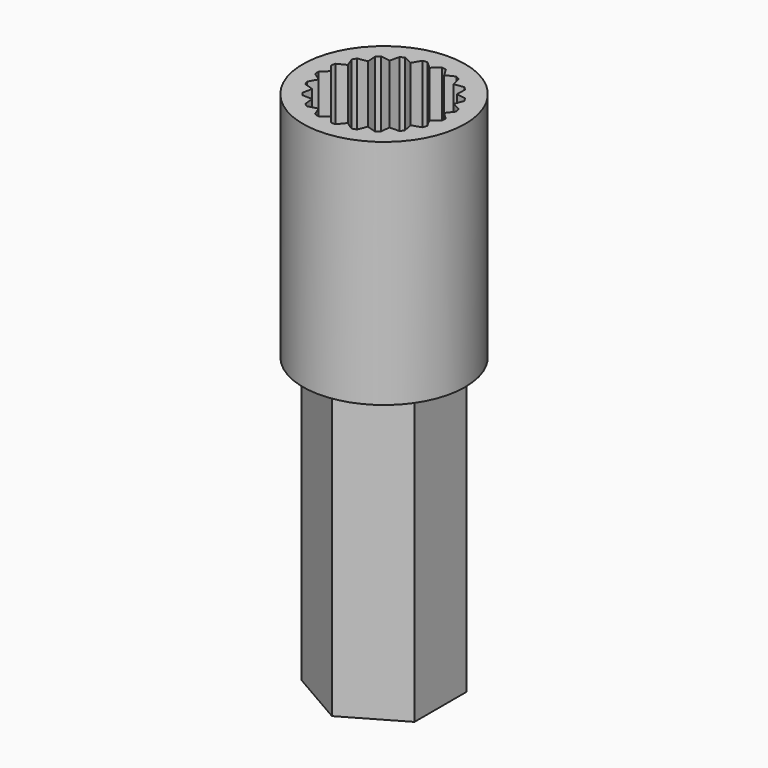
from build123d import *

# Parameters (mm, degrees)
F0_R     = 2.8
F1_DEPTH = 5
F2_DEPTH = 3
F4_DEPTH = 10


with BuildPart() as f1:
    # F0 (on Top) → F1 (new body)
    with BuildSketch(Plane.XY):
        Circle(F0_R)
        with BuildLine():
            ThreePointArc((-0.4051416179, 2.162373758), (-0.3278929856, 2.1754278177), (-0.2502285416, 2.1857231474))
            Line((-0.2502285416, 2.1857231474), (0, 1.96))
            Line((0, 1.96), (0.2502285416, 2.1857231474))
            ThreePointArc((0.2502285416, 2.1857231474), (0.3278929856, 2.1754278177), (0.4051416179, 2.162373758))
            Line((0.4051416179, 2.162373758), (0.5777201418, 1.8729226993))
            Line((0.5777201418, 1.8729226993), (0.8833647971, 2.0148614432))
            ThreePointArc((0.8833647971, 2.0148614432), (0.9545442261, 1.9821315094), (1.0245131668, 1.9468879709))
            Line((1.0245131668, 1.9468879709), (1.1041073138, 1.6194279977))
            Line((1.1041073138, 1.6194279977), (1.4380102138, 1.6649704577))
            ThreePointArc((1.4380102138, 1.6649704577), (1.4963800231, 1.612714118), (1.5528522248, 1.5584126437))
            Line((1.5528522248, 1.5584126437), (1.5323897056, 1.2220400116))
            Line((1.5323897056, 1.2220400116), (1.8648821124, 1.1671395404))
            ThreePointArc((1.8648821124, 1.1671395404), (1.9052558883, 1.1), (1.943213548, 1.0314655142))
            Line((1.943213548, 1.0314655142), (1.8245125473, 0.7160684078))
            Line((1.8245125473, 0.7160684078), (2.1260510514, 0.5656031531))
            ThreePointArc((2.1260510514, 0.5656031531), (2.1448414068, 0.4895460547), (2.1609118198, 0.4128681472))
            Line((2.1609118198, 0.4128681472), (1.9545194425, 0.1464709834))
            Line((1.9545194425, 0.1464709834), (2.1983110245, -0.0861895565))
            ThreePointArc((2.1983110245, -0.0861895565), (2.1938483538, -0.1644062059), (2.1866035935, -0.2424143665))
            Line((2.1866035935, -0.2424143665), (1.9108587079, -0.4361410306))
            Line((1.9108587079, -0.4361410306), (2.0752414159, -0.7303239458))
            ThreePointArc((2.0752414159, -0.7303239458), (2.047922247, -0.8037502536), (2.0180060421, -0.8761572999))
            Line((2.0180060421, -0.8761572999), (1.6974097914, -0.98))
            Line((1.6974097914, -0.98), (1.7677775005, -1.3095658475))
            ThreePointArc((1.7677775005, -1.3095658475), (1.7200292614, -1.3716775641), (1.670099798, -1.4320498123))
            Line((1.670099798, -1.4320498123), (1.333138566, -1.4367816688))
            Line((1.333138566, -1.4367816688), (1.3032387964, -1.7724470767))
            ThreePointArc((1.3032387964, -1.7724470767), (1.2393041277, -1.8177253035), (1.1737978577, -1.8606984144))
            Line((1.1737978577, -1.8606984144), (0.8504121287, -1.7658989811))
            Line((0.8504121287, -1.7658989811), (0.722901606, -2.0778386049))
            ThreePointArc((0.722901606, -2.0778386049), (0.6484613837, -2.1022601727), (0.5731988267, -2.1240157968))
            Line((0.5731988267, -2.1240157968), (0.2921228417, -1.9381084194))
            Line((0.2921228417, -1.9381084194), (0.0783314356, -2.1986050546))
            ThreePointArc((0.0783314356, -2.1986050546), (0, -2.2), (-0.0783314356, -2.1986050546))
            Line((-0.0783314356, -2.1986050546), (-0.2921228417, -1.9381084194))
            Line((-0.2921228417, -1.9381084194), (-0.5731988267, -2.1240157968))
            ThreePointArc((-0.5731988267, -2.1240157968), (-0.6484613837, -2.1022601727), (-0.722901606, -2.0778386049))
            Line((-0.722901606, -2.0778386049), (-0.8504121287, -1.7658989811))
            Line((-0.8504121287, -1.7658989811), (-1.1737978577, -1.8606984144))
            ThreePointArc((-1.1737978577, -1.8606984144), (-1.2393041277, -1.8177253035), (-1.3032387964, -1.7724470767))
            Line((-1.3032387964, -1.7724470767), (-1.333138566, -1.4367816688))
            Line((-1.333138566, -1.4367816688), (-1.670099798, -1.4320498123))
            ThreePointArc((-1.670099798, -1.4320498123), (-1.7200292614, -1.3716775641), (-1.7677775005, -1.3095658475))
            Line((-1.7677775005, -1.3095658475), (-1.6974097914, -0.98))
            Line((-1.6974097914, -0.98), (-2.0180060421, -0.8761572999))
            ThreePointArc((-2.0180060421, -0.8761572999), (-2.047922247, -0.8037502536), (-2.0752414159, -0.7303239458))
            Line((-2.0752414159, -0.7303239458), (-1.9108587079, -0.4361410306))
            Line((-1.9108587079, -0.4361410306), (-2.1866035935, -0.2424143665))
            ThreePointArc((-2.1866035935, -0.2424143665), (-2.1938483538, -0.1644062059), (-2.1983110245, -0.0861895565))
            Line((-2.1983110245, -0.0861895565), (-1.9545194425, 0.1464709834))
            Line((-1.9545194425, 0.1464709834), (-2.1609118198, 0.4128681472))
            ThreePointArc((-2.1609118198, 0.4128681472), (-2.1448414068, 0.4895460547), (-2.1260510514, 0.5656031531))
            Line((-2.1260510514, 0.5656031531), (-1.8245125473, 0.7160684078))
            Line((-1.8245125473, 0.7160684078), (-1.943213548, 1.0314655142))
            ThreePointArc((-1.943213548, 1.0314655142), (-1.9052558883, 1.1), (-1.8648821124, 1.1671395404))
            Line((-1.8648821124, 1.1671395404), (-1.5323897056, 1.2220400116))
            Line((-1.5323897056, 1.2220400116), (-1.5528522248, 1.5584126437))
            ThreePointArc((-1.5528522248, 1.5584126437), (-1.4963800231, 1.612714118), (-1.4380102138, 1.6649704577))
            Line((-1.4380102138, 1.6649704577), (-1.1041073138, 1.6194279977))
            Line((-1.1041073138, 1.6194279977), (-1.0245131668, 1.9468879709))
            ThreePointArc((-1.0245131668, 1.9468879709), (-0.9545442261, 1.9821315094), (-0.8833647971, 2.0148614432))
            Line((-0.8833647971, 2.0148614432), (-0.5777201418, 1.8729226993))
            Line((-0.5777201418, 1.8729226993), (-0.4051416179, 2.162373758))
        make_face(mode=Mode.SUBTRACT)
    extrude(amount=F1_DEPTH)

    # F0 (on Top) → F2 (join)
    with BuildSketch(Plane.XY):
        Circle(F0_R)
        with BuildLine():
            ThreePointArc((-0.4051416179, 2.162373758), (-0.3278929856, 2.1754278177), (-0.2502285416, 2.1857231474))
            Line((-0.2502285416, 2.1857231474), (0, 1.96))
            Line((0, 1.96), (0.2502285416, 2.1857231474))
            ThreePointArc((0.2502285416, 2.1857231474), (0.3278929856, 2.1754278177), (0.4051416179, 2.162373758))
            Line((0.4051416179, 2.162373758), (0.5777201418, 1.8729226993))
            Line((0.5777201418, 1.8729226993), (0.8833647971, 2.0148614432))
            ThreePointArc((0.8833647971, 2.0148614432), (0.9545442261, 1.9821315094), (1.0245131668, 1.9468879709))
            Line((1.0245131668, 1.9468879709), (1.1041073138, 1.6194279977))
            Line((1.1041073138, 1.6194279977), (1.4380102138, 1.6649704577))
            ThreePointArc((1.4380102138, 1.6649704577), (1.4963800231, 1.612714118), (1.5528522248, 1.5584126437))
            Line((1.5528522248, 1.5584126437), (1.5323897056, 1.2220400116))
            Line((1.5323897056, 1.2220400116), (1.8648821124, 1.1671395404))
            ThreePointArc((1.8648821124, 1.1671395404), (1.9052558883, 1.1), (1.943213548, 1.0314655142))
            Line((1.943213548, 1.0314655142), (1.8245125473, 0.7160684078))
            Line((1.8245125473, 0.7160684078), (2.1260510514, 0.5656031531))
            ThreePointArc((2.1260510514, 0.5656031531), (2.1448414068, 0.4895460547), (2.1609118198, 0.4128681472))
            Line((2.1609118198, 0.4128681472), (1.9545194425, 0.1464709834))
            Line((1.9545194425, 0.1464709834), (2.1983110245, -0.0861895565))
            ThreePointArc((2.1983110245, -0.0861895565), (2.1938483538, -0.1644062059), (2.1866035935, -0.2424143665))
            Line((2.1866035935, -0.2424143665), (1.9108587079, -0.4361410306))
            Line((1.9108587079, -0.4361410306), (2.0752414159, -0.7303239458))
            ThreePointArc((2.0752414159, -0.7303239458), (2.047922247, -0.8037502536), (2.0180060421, -0.8761572999))
            Line((2.0180060421, -0.8761572999), (1.6974097914, -0.98))
            Line((1.6974097914, -0.98), (1.7677775005, -1.3095658475))
            ThreePointArc((1.7677775005, -1.3095658475), (1.7200292614, -1.3716775641), (1.670099798, -1.4320498123))
            Line((1.670099798, -1.4320498123), (1.333138566, -1.4367816688))
            Line((1.333138566, -1.4367816688), (1.3032387964, -1.7724470767))
            ThreePointArc((1.3032387964, -1.7724470767), (1.2393041277, -1.8177253035), (1.1737978577, -1.8606984144))
            Line((1.1737978577, -1.8606984144), (0.8504121287, -1.7658989811))
            Line((0.8504121287, -1.7658989811), (0.722901606, -2.0778386049))
            ThreePointArc((0.722901606, -2.0778386049), (0.6484613837, -2.1022601727), (0.5731988267, -2.1240157968))
            Line((0.5731988267, -2.1240157968), (0.2921228417, -1.9381084194))
            Line((0.2921228417, -1.9381084194), (0.0783314356, -2.1986050546))
            ThreePointArc((0.0783314356, -2.1986050546), (0, -2.2), (-0.0783314356, -2.1986050546))
            Line((-0.0783314356, -2.1986050546), (-0.2921228417, -1.9381084194))
            Line((-0.2921228417, -1.9381084194), (-0.5731988267, -2.1240157968))
            ThreePointArc((-0.5731988267, -2.1240157968), (-0.6484613837, -2.1022601727), (-0.722901606, -2.0778386049))
            Line((-0.722901606, -2.0778386049), (-0.8504121287, -1.7658989811))
            Line((-0.8504121287, -1.7658989811), (-1.1737978577, -1.8606984144))
            ThreePointArc((-1.1737978577, -1.8606984144), (-1.2393041277, -1.8177253035), (-1.3032387964, -1.7724470767))
            Line((-1.3032387964, -1.7724470767), (-1.333138566, -1.4367816688))
            Line((-1.333138566, -1.4367816688), (-1.670099798, -1.4320498123))
            ThreePointArc((-1.670099798, -1.4320498123), (-1.7200292614, -1.3716775641), (-1.7677775005, -1.3095658475))
            Line((-1.7677775005, -1.3095658475), (-1.6974097914, -0.98))
            Line((-1.6974097914, -0.98), (-2.0180060421, -0.8761572999))
            ThreePointArc((-2.0180060421, -0.8761572999), (-2.047922247, -0.8037502536), (-2.0752414159, -0.7303239458))
            Line((-2.0752414159, -0.7303239458), (-1.9108587079, -0.4361410306))
            Line((-1.9108587079, -0.4361410306), (-2.1866035935, -0.2424143665))
            ThreePointArc((-2.1866035935, -0.2424143665), (-2.1938483538, -0.1644062059), (-2.1983110245, -0.0861895565))
            Line((-2.1983110245, -0.0861895565), (-1.9545194425, 0.1464709834))
            Line((-1.9545194425, 0.1464709834), (-2.1609118198, 0.4128681472))
            ThreePointArc((-2.1609118198, 0.4128681472), (-2.1448414068, 0.4895460547), (-2.1260510514, 0.5656031531))
            Line((-2.1260510514, 0.5656031531), (-1.8245125473, 0.7160684078))
            Line((-1.8245125473, 0.7160684078), (-1.943213548, 1.0314655142))
            ThreePointArc((-1.943213548, 1.0314655142), (-1.9052558883, 1.1), (-1.8648821124, 1.1671395404))
            Line((-1.8648821124, 1.1671395404), (-1.5323897056, 1.2220400116))
            Line((-1.5323897056, 1.2220400116), (-1.5528522248, 1.5584126437))
            ThreePointArc((-1.5528522248, 1.5584126437), (-1.4963800231, 1.612714118), (-1.4380102138, 1.6649704577))
            Line((-1.4380102138, 1.6649704577), (-1.1041073138, 1.6194279977))
            Line((-1.1041073138, 1.6194279977), (-1.0245131668, 1.9468879709))
            ThreePointArc((-1.0245131668, 1.9468879709), (-0.9545442261, 1.9821315094), (-0.8833647971, 2.0148614432))
            Line((-0.8833647971, 2.0148614432), (-0.5777201418, 1.8729226993))
            Line((-0.5777201418, 1.8729226993), (-0.4051416179, 2.162373758))
        make_face(mode=Mode.SUBTRACT)
        with BuildLine():
            Line((0, 1.96), (-0.2502285416, 2.1857231474))
            ThreePointArc((-0.2502285416, 2.1857231474), (-0.3278929856, 2.1754278177), (-0.4051416179, 2.162373758))
            Line((-0.4051416179, 2.162373758), (-0.5777201418, 1.8729226993))
            Line((-0.5777201418, 1.8729226993), (-0.8833647971, 2.0148614432))
            ThreePointArc((-0.8833647971, 2.0148614432), (-0.9545442261, 1.9821315094), (-1.0245131668, 1.9468879709))
            Line((-1.0245131668, 1.9468879709), (-1.1041073138, 1.6194279977))
            Line((-1.1041073138, 1.6194279977), (-1.4380102138, 1.6649704577))
            ThreePointArc((-1.4380102138, 1.6649704577), (-1.4963800231, 1.612714118), (-1.5528522248, 1.5584126437))
            Line((-1.5528522248, 1.5584126437), (-1.5323897056, 1.2220400116))
            Line((-1.5323897056, 1.2220400116), (-1.8648821124, 1.1671395404))
            ThreePointArc((-1.8648821124, 1.1671395404), (-1.9052558883, 1.1), (-1.943213548, 1.0314655142))
            Line((-1.943213548, 1.0314655142), (-1.8245125473, 0.7160684078))
            Line((-1.8245125473, 0.7160684078), (-2.1260510514, 0.5656031531))
            ThreePointArc((-2.1260510514, 0.5656031531), (-2.1448414068, 0.4895460547), (-2.1609118198, 0.4128681472))
            Line((-2.1609118198, 0.4128681472), (-1.9545194425, 0.1464709834))
            Line((-1.9545194425, 0.1464709834), (-2.1983110245, -0.0861895565))
            ThreePointArc((-2.1983110245, -0.0861895565), (-2.1938483538, -0.1644062059), (-2.1866035935, -0.2424143665))
            Line((-2.1866035935, -0.2424143665), (-1.9108587079, -0.4361410306))
            Line((-1.9108587079, -0.4361410306), (-2.0752414159, -0.7303239458))
            ThreePointArc((-2.0752414159, -0.7303239458), (-2.047922247, -0.8037502536), (-2.0180060421, -0.8761572999))
            Line((-2.0180060421, -0.8761572999), (-1.6974097914, -0.98))
            Line((-1.6974097914, -0.98), (-1.7677775005, -1.3095658475))
            ThreePointArc((-1.7677775005, -1.3095658475), (-1.7200292614, -1.3716775641), (-1.670099798, -1.4320498123))
            Line((-1.670099798, -1.4320498123), (-1.333138566, -1.4367816688))
            Line((-1.333138566, -1.4367816688), (-1.3032387964, -1.7724470767))
            ThreePointArc((-1.3032387964, -1.7724470767), (-1.2393041277, -1.8177253035), (-1.1737978577, -1.8606984144))
            Line((-1.1737978577, -1.8606984144), (-0.8504121287, -1.7658989811))
            Line((-0.8504121287, -1.7658989811), (-0.722901606, -2.0778386049))
            ThreePointArc((-0.722901606, -2.0778386049), (-0.6484613837, -2.1022601727), (-0.5731988267, -2.1240157968))
            Line((-0.5731988267, -2.1240157968), (-0.2921228417, -1.9381084194))
            Line((-0.2921228417, -1.9381084194), (-0.0783314356, -2.1986050546))
            ThreePointArc((-0.0783314356, -2.1986050546), (0, -2.2), (0.0783314356, -2.1986050546))
            Line((0.0783314356, -2.1986050546), (0.2921228417, -1.9381084194))
            Line((0.2921228417, -1.9381084194), (0.5731988267, -2.1240157968))
            ThreePointArc((0.5731988267, -2.1240157968), (0.6484613837, -2.1022601727), (0.722901606, -2.0778386049))
            Line((0.722901606, -2.0778386049), (0.8504121287, -1.7658989811))
            Line((0.8504121287, -1.7658989811), (1.1737978577, -1.8606984144))
            ThreePointArc((1.1737978577, -1.8606984144), (1.2393041277, -1.8177253035), (1.3032387964, -1.7724470767))
            Line((1.3032387964, -1.7724470767), (1.333138566, -1.4367816688))
            Line((1.333138566, -1.4367816688), (1.670099798, -1.4320498123))
            ThreePointArc((1.670099798, -1.4320498123), (1.7200292614, -1.3716775641), (1.7677775005, -1.3095658475))
            Line((1.7677775005, -1.3095658475), (1.6974097914, -0.98))
            Line((1.6974097914, -0.98), (2.0180060421, -0.8761572999))
            ThreePointArc((2.0180060421, -0.8761572999), (2.047922247, -0.8037502536), (2.0752414159, -0.7303239458))
            Line((2.0752414159, -0.7303239458), (1.9108587079, -0.4361410306))
            Line((1.9108587079, -0.4361410306), (2.1866035935, -0.2424143665))
            ThreePointArc((2.1866035935, -0.2424143665), (2.1938483538, -0.1644062059), (2.1983110245, -0.0861895565))
            Line((2.1983110245, -0.0861895565), (1.9545194425, 0.1464709834))
            Line((1.9545194425, 0.1464709834), (2.1609118198, 0.4128681472))
            ThreePointArc((2.1609118198, 0.4128681472), (2.1448414068, 0.4895460547), (2.1260510514, 0.5656031531))
            Line((2.1260510514, 0.5656031531), (1.8245125473, 0.7160684078))
            Line((1.8245125473, 0.7160684078), (1.943213548, 1.0314655142))
            ThreePointArc((1.943213548, 1.0314655142), (1.9052558883, 1.1), (1.8648821124, 1.1671395404))
            Line((1.8648821124, 1.1671395404), (1.5323897056, 1.2220400116))
            Line((1.5323897056, 1.2220400116), (1.5528522248, 1.5584126437))
            ThreePointArc((1.5528522248, 1.5584126437), (1.4963800231, 1.612714118), (1.4380102138, 1.6649704577))
            Line((1.4380102138, 1.6649704577), (1.1041073138, 1.6194279977))
            Line((1.1041073138, 1.6194279977), (1.0245131668, 1.9468879709))
            ThreePointArc((1.0245131668, 1.9468879709), (0.9545442261, 1.9821315094), (0.8833647971, 2.0148614432))
            Line((0.8833647971, 2.0148614432), (0.5777201418, 1.8729226993))
            Line((0.5777201418, 1.8729226993), (0.4051416179, 2.162373758))
            ThreePointArc((0.4051416179, 2.162373758), (0.3278929856, 2.1754278177), (0.2502285416, 2.1857231474))
            Line((0.2502285416, 2.1857231474), (0, 1.96))
        make_face()
    extrude(amount=-F2_DEPTH)

    # F3 (on face) → F4 (join)
    with BuildSketch(Plane(origin=(0, 0, -3), x_dir=(1, 0, 0), z_dir=(0, 0, -1))):
        Polygon((1.95, -1.1258330249), (1.95, 1.1258330249), (0, 2.2516660498), (-1.95, 1.1258330249), (-1.95, -1.1258330249), (0, -2.2516660498), align=None)
    extrude(amount=F4_DEPTH)


solid = f1.part
